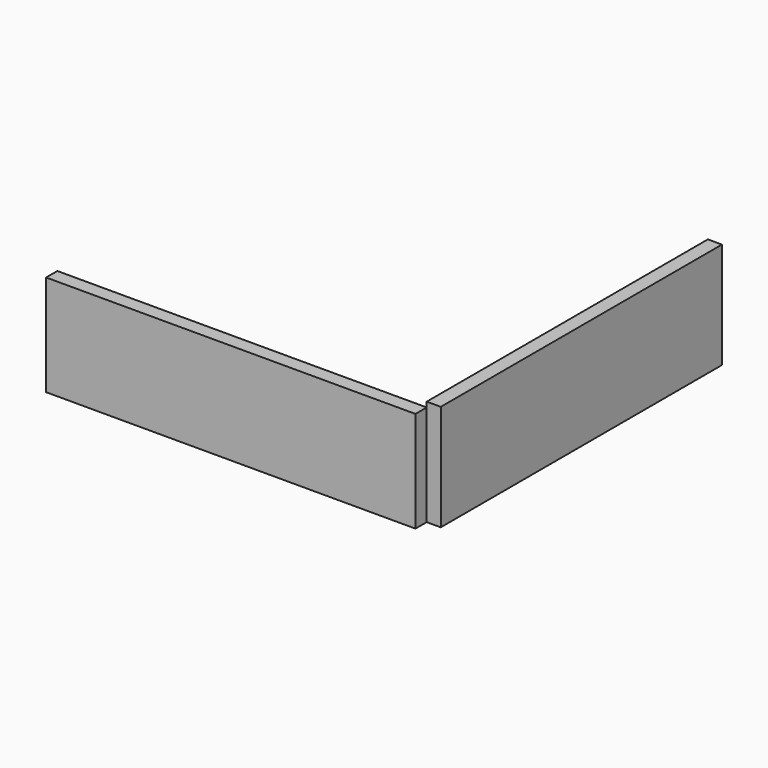
from build123d import *

# Parameters (mm, degrees)
F1_W     = 63.5
F1_H     = 19.167351
F2_DEPTH = 2.54
F0_W     = 66.738807
F0_H     = 18.247895
F3_DEPTH = 2.54


with BuildPart() as f2:
    # F1 (on Right) → F2 (new body)
    with BuildSketch(Plane.YZ):
        with Locations((31.75, 9.583676)):
            Rectangle(F1_W, F1_H)
    extrude(amount=F2_DEPTH)


with BuildPart() as f3:
    # F0 (on Front) → F3 (new body)
    with BuildSketch(Plane.XZ):
        with Locations((-33.369403, 9.123947)):
            Rectangle(F0_W, F0_H)
    extrude(amount=F3_DEPTH)


solid = Compound([f2.part, f3.part])
